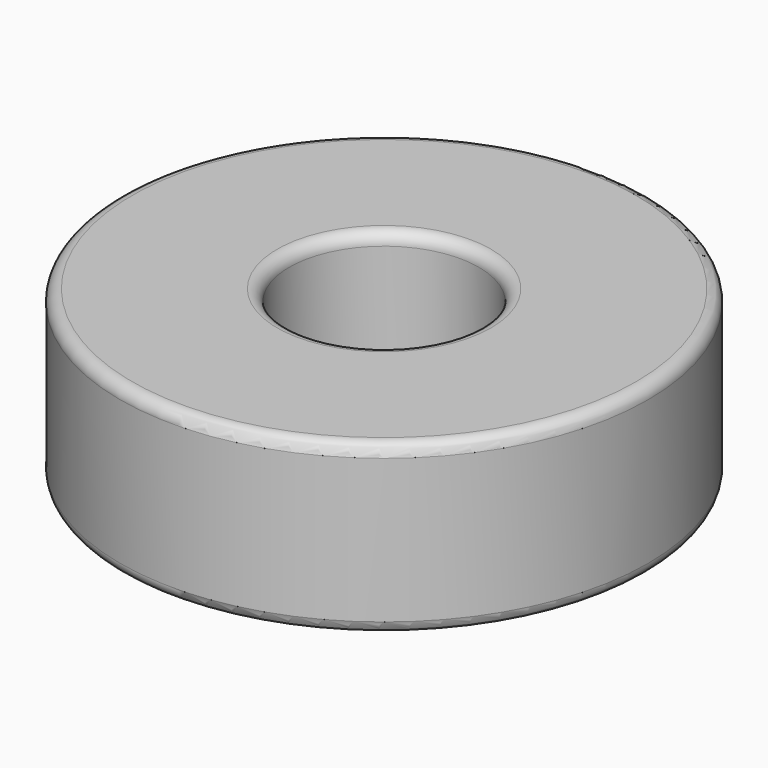
from build123d import *

# Parameters (mm, degrees)
F0_R     = 11
F1_DEPTH = 7
F2_R     = 3.95
F3_DEPTH = 7.001
F4_R     = 0.5


with BuildPart() as f1:
    # F0 (on Top) → F1 (new body)
    with BuildSketch(Plane.XY):
        Circle(F0_R)
    extrude(amount=F1_DEPTH)

    # F2 (on face) → F3 (cut, through all)
    with BuildSketch(Plane.XY.offset(7)):
        Circle(F2_R)
    extrude(amount=-F3_DEPTH, mode=Mode.SUBTRACT)

    # F4
    f4_edges = [f1.edges().sort_by_distance(p)[0] for p in [
        (-11, 0, 7),
        (-3.95, 0, 7),
        (-11, 0, 0),
        (-3.95, 0, 0),
    ]]
    fillet(f4_edges, radius=F4_R)


solid = f1.part
